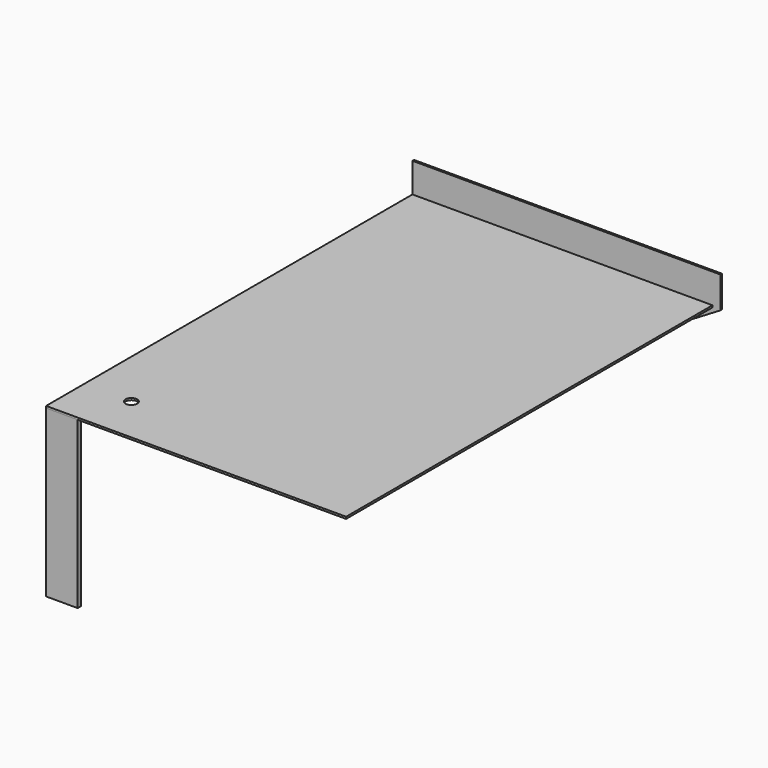
from build123d import *

# Parameters (mm, degrees)
F0_W     = 482.6
F0_H     = 736.6
F0_R     = 9.525
F1_DEPTH = 3.175
F3_DEPTH = 266.7
F5_DEPTH = 3.175
F6_R     = 6.35
F7_DEPTH = 25.4


with BuildPart() as f1:
    # F0 (on Top) → F1 (new body)
    with BuildSketch(Plane.XY):
        Rectangle(F0_W, F0_H)
        with Locations((-165.1, -292.1)):
            Circle(F0_R, mode=Mode.SUBTRACT)
    extrude(amount=F1_DEPTH)


with BuildPart() as f3:
    # F2 (on face) → F3 (new body)
    with BuildSketch(Plane(origin=(0, 0, 0), x_dir=(1, 0, 0), z_dir=(0, 0, -1))):
        Polygon((-241.3, -317.5), (-241.3, -368.3), (-190.5, -368.3), (-190.5, -361.95), (-234.95, -361.95), (-234.95, -317.5), align=None)
        Polygon((-190.5, 368.3), (-241.3, 368.3), (-241.3, 317.5), (-234.95, 317.5), (-234.95, 361.95), (-190.5, 361.95), align=None)
    extrude(amount=F3_DEPTH)

    # F6 (on face) → F7 (cut)
    with BuildSketch(Plane(origin=(-241.3, 0, 0), x_dir=(0, -1, 0), z_dir=(-1, 0, 0))):
        with Locations((-342.9, -50.8)):
            Circle(F6_R)
        with Locations((-342.9, -228.6)):
            Circle(F6_R)
        with Locations((342.9, -228.6)):
            Circle(F6_R)
        with Locations((342.9, -50.8)):
            Circle(F6_R)
    extrude(amount=-F7_DEPTH, mode=Mode.SUBTRACT)


with BuildPart() as f5:
    # F4 (on face) → F5 (new body)
    with BuildSketch(Plane(origin=(0, 368.3, 0), x_dir=(-1, 0, 0), z_dir=(0, 1, 0))):
        Polygon((190.5, -266.7), (241.3, -266.7), (241.3, 50.8), (-254, 50.8), (-254, 0), align=None)
    extrude(amount=F5_DEPTH)


solid = Compound([f1.part, f3.part, f5.part])
